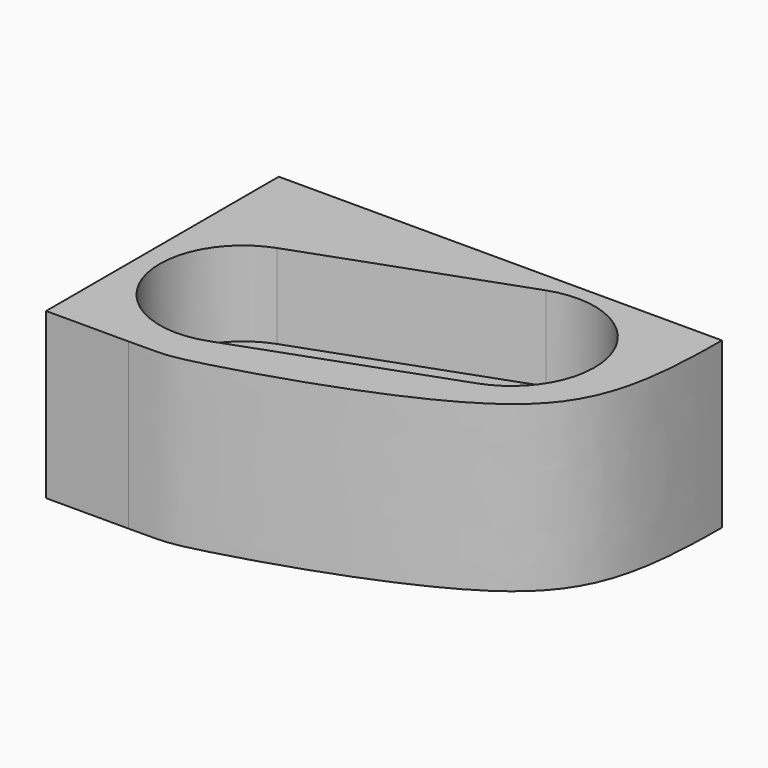
from build123d import *

# Parameters (mm, degrees)
F1_DEPTH = 595
F3_DEPTH = 305


with BuildPart() as f1:
    # F0 (on Top) → F1 (new body)
    with BuildSketch(Plane.XY):
        with BuildLine():
            Line((781.3250578209, 439.03850317), (-818.6749421791, 439.03850317))
            Line((-818.6749421791, 439.03850317), (-818.6749421791, -610.96149683))
            Line((-818.6749421791, -610.96149683), (-520.2885866165, -610.96149683))
            add(Edge.make_bspline(
                [(-520.2885866165, -610.96149683), (-400.3724163575, -610.7884643122), (-348.5546672211, -615.2711222787), (677.9508016516, -306.760032696), (781.3378163617, 49.7424311157), (781.3250578209, 439.03850317)],
                knots=[0, 0, 0, 0, 0.2061009724, 0.6185113004, 1, 1, 1, 1], degree=3))
        make_face()
    extrude(amount=F1_DEPTH)

    # F2 (on face) → F3 (cut)
    with BuildSketch(Plane.XY.offset(595)):
        with BuildLine():
            Line((202.6958372748, 367.4568472644), (-549.8945345089, 96.1493974984))
            ThreePointArc((-549.8945345089, 96.1493974984), (-730.3756302655, -287.8122855827), (-346.4139471844, -468.2933813393))
            Line((-346.4139471844, -468.2933813393), (406.1764245993, -196.9859315734))
            ThreePointArc((406.1764245993, -196.9859315734), (586.6575203559, 186.9757515078), (202.6958372748, 367.4568472644))
        make_face()
    extrude(amount=-F3_DEPTH, mode=Mode.SUBTRACT)


solid = f1.part
